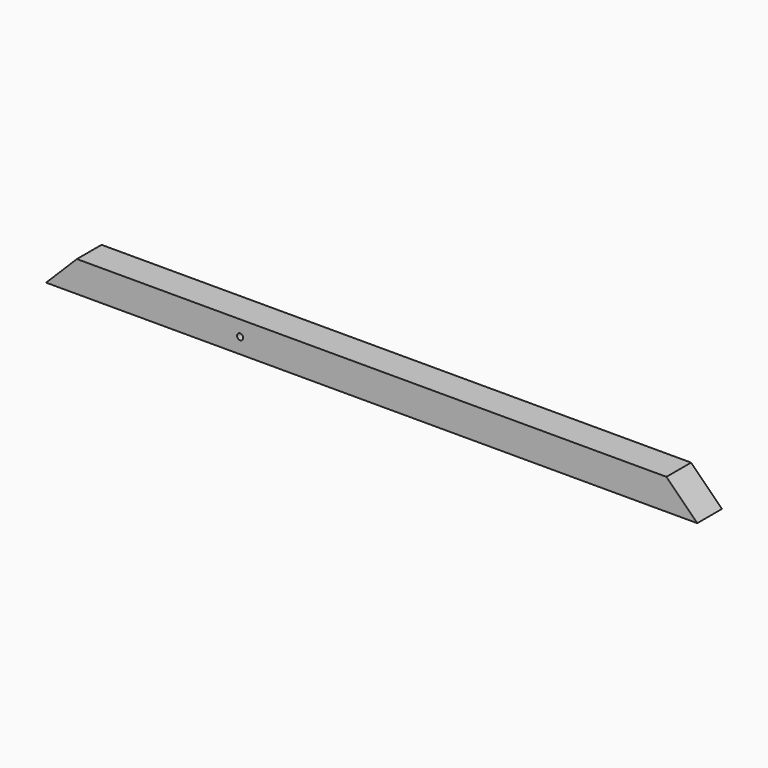
from build123d import *

# Parameters (mm, degrees)
F0_W     = 670.999928
F0_H     = 31.75
F1_DEPTH = 31.75
F3_DEPTH = 31.751
F4_R     = 3.175
F5_DEPTH = 31.751


with BuildPart() as f1:
    # F0 (on Front) → F1 (new body)
    with BuildSketch(Plane.XZ):
        Rectangle(F0_W, F0_H)
    extrude(amount=F1_DEPTH)

    # F2 (on face) → F3 (cut, through all)
    with BuildSketch(Plane.XZ.offset(31.75)):
        Polygon((-335.499964, 15.875), (-335.499964, -15.875), (-303.749964, 15.875), align=None)
        Polygon((303.749964, 15.875), (335.499964, -15.875), (335.499964, 15.875), align=None)
    extrude(amount=-F3_DEPTH, mode=Mode.SUBTRACT)

    # F4 (on face) → F5 (cut, through all)
    with BuildSketch(Plane.XZ.offset(31.75)):
        with Locations((-135.499856, 0)):
            Circle(F4_R)
    extrude(amount=-F5_DEPTH, mode=Mode.SUBTRACT)


solid = f1.part
